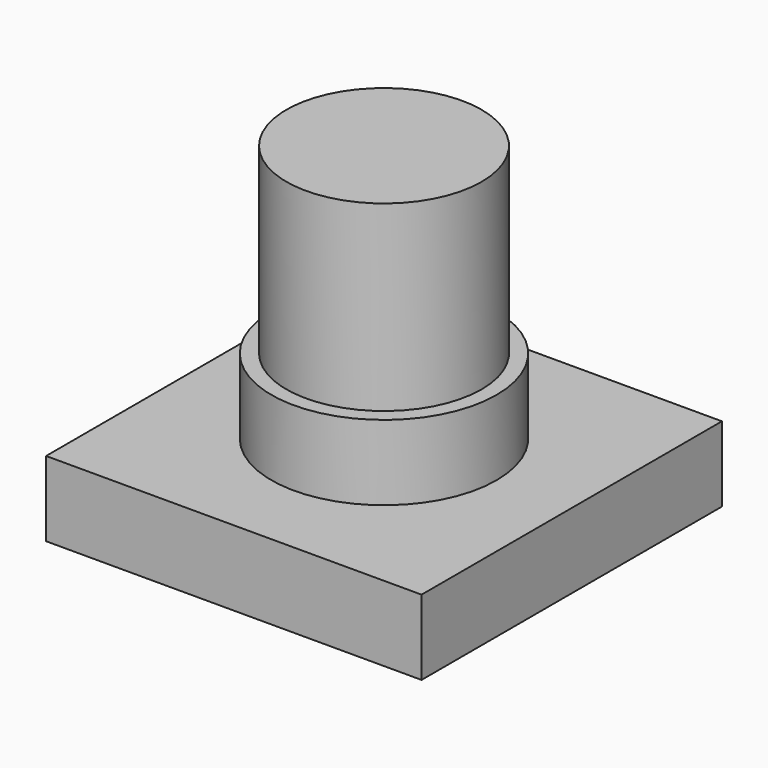
from build123d import *

# Parameters (mm, degrees)
F0_W     = 15
F0_H     = 15
F0_R     = 4.5
F1_DEPTH = 3
F0_R_2   = 3.9
F2_DEPTH = 6
F3_DEPTH = 13.3


with BuildPart() as f1:
    # F0 (on Top) → F1 (new body)
    with BuildSketch(Plane.XY):
        Rectangle(F0_W, F0_H)
        Circle(F0_R, mode=Mode.SUBTRACT)
    extrude(amount=F1_DEPTH)

    # F0 (on Top) → F2 (join)
    with BuildSketch(Plane.XY):
        Circle(F0_R)
        Circle(F0_R_2, mode=Mode.SUBTRACT)
    extrude(amount=F2_DEPTH)

    # F0 (on Top) → F3 (join)
    with BuildSketch(Plane.XY):
        Circle(F0_R_2)
    extrude(amount=F3_DEPTH)


solid = f1.part
